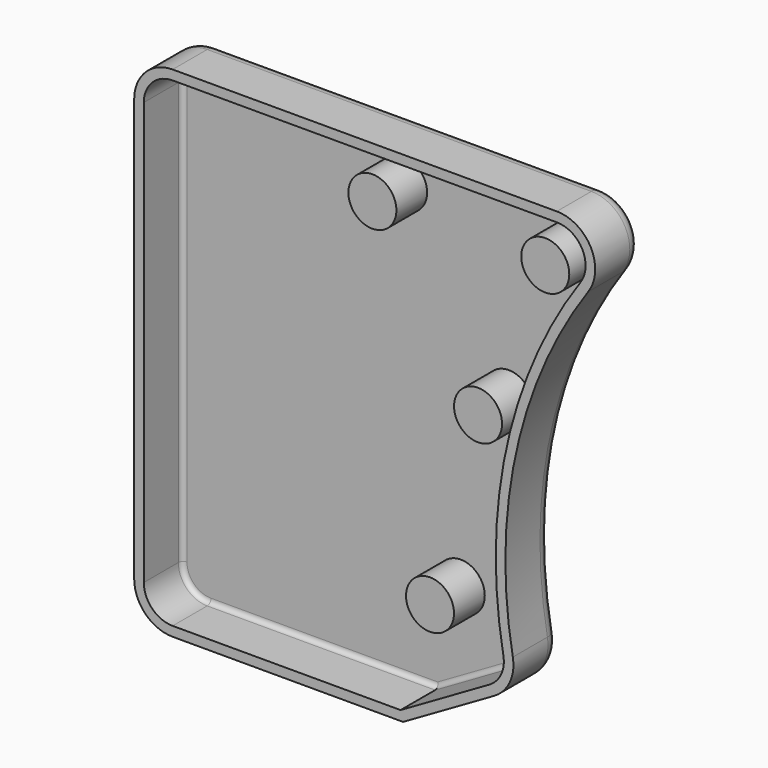
from build123d import *

# Parameters (mm, degrees)
F1_DEPTH = 9.525
F2_T     = -1.5875
F3_R     = 3.96875
F4_DEPTH = 6.35
F5_R     = 0.79375
F6_R     = 2.38125


with BuildPart() as f1:
    # F0 (on Front) → F1 (new body)
    with BuildSketch(Plane.XZ):
        with BuildLine():
            Line((44.45, 0), (-19.05, 0))
            ThreePointArc((-19.05, 0), (-23.5401280605, -1.8598719395), (-25.4, -6.35))
            Line((-25.4, -6.35), (-25.4, -76.2))
            ThreePointArc((-25.4, -76.2), (-23.5401280605, -80.6901280605), (-19.05, -82.55))
            Line((-19.05, -82.55), (19.05, -82.55))
            Line((19.05, -82.55), (34.1089205608, -73.8557281605))
            ThreePointArc((34.1089205608, -73.8557281605), (36.6961873461, -71.0245713224), (37.1814148685, -67.2201064833))
            ThreePointArc((37.1814148685, -67.2201064833), (37.6995950161, -37.3548976318), (49.6577958893, -9.9833678558))
            ThreePointArc((49.6577958893, -9.9833678558), (50.0800260161, -3.4131126923), (44.45, 0))
        make_face()
    extrude(amount=F1_DEPTH)

    # F2
    f2_openings = [f1.faces().sort_by_distance(p)[0] for p in [
        (7.276457, -9.525, -39.048077),
    ]]
    offset(amount=F2_T, openings=f2_openings)

    # F3 (on face) → F4 (join)
    with BuildSketch(Plane.XZ.offset(1.5875)):
        with Locations((41.275, -9.525)):
            Circle(F3_R)
        with Locations((12.7, -9.525)):
            Circle(F3_R)
        with Locations((30.1625, -34.925)):
            Circle(F3_R)
        with Locations((22.225, -65.0875)):
            Circle(F3_R)
    extrude(amount=F4_DEPTH)

    # F5
    f5_edges = [f1.edges().sort_by_distance(p)[0] for p in [
        (-23.8125, -1.5875, -41.275),
    ]]
    fillet(f5_edges, radius=F5_R)

    # F6
    f6_edges = [f1.edges().sort_by_distance(p)[0] for p in [
        (37.699595, 0, -37.354898),
    ]]
    fillet(f6_edges, radius=F6_R)


solid = f1.part
